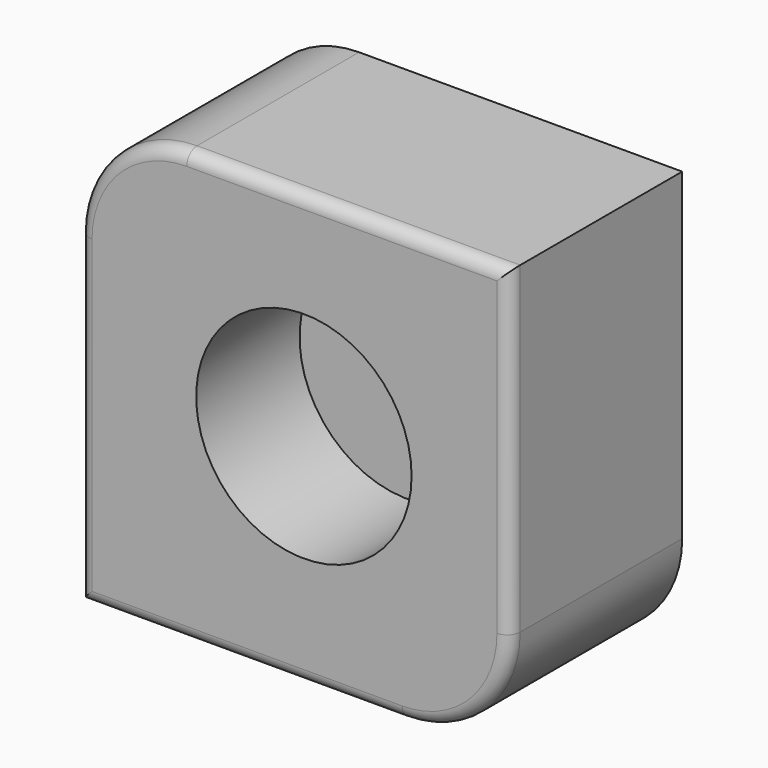
from build123d import *

# Parameters (mm, degrees)
F1_DEPTH = 50
F2_R     = 3
F3_R     = 25
F4_DEPTH = 30


with BuildPart() as f1:
    # F0 (on Front) → F1 (new body)
    with BuildSketch(Plane.XZ):
        with BuildLine():
            Line((54.576429, 67.460465), (-20.423571, 67.460465))
            ThreePointArc((-20.423571, 67.460465), (-38.101241, 60.138135), (-45.423571, 42.460465))
            Line((-45.423571, 42.460465), (-45.423571, -32.539535))
            Line((-45.423571, -32.539535), (29.576429, -32.539535))
            ThreePointArc((29.576429, -32.539535), (47.254099, -25.217204), (54.576429, -7.539535))
            Line((54.576429, -7.539535), (54.576429, 67.460465))
        make_face()
    extrude(amount=F1_DEPTH)

    # F2
    f2_edges = [f1.edges().sort_by_distance(p)[0] for p in [
        (17.076429, -50, 67.460465),
        (-38.101241, -50, 60.138135),
        (-45.423571, -50, 4.960465),
        (-7.923571, -50, -32.539535),
        (47.254099, -50, -25.217204),
        (54.576429, -50, 29.960465),
    ]]
    fillet(f2_edges, radius=F2_R)

    # F3 (on face) → F4 (cut)
    with BuildSketch(Plane.XZ.offset(50)):
        with Locations((6.760165, 18.145708)):
            Circle(F3_R)
    extrude(amount=-F4_DEPTH, mode=Mode.SUBTRACT)


solid = f1.part
